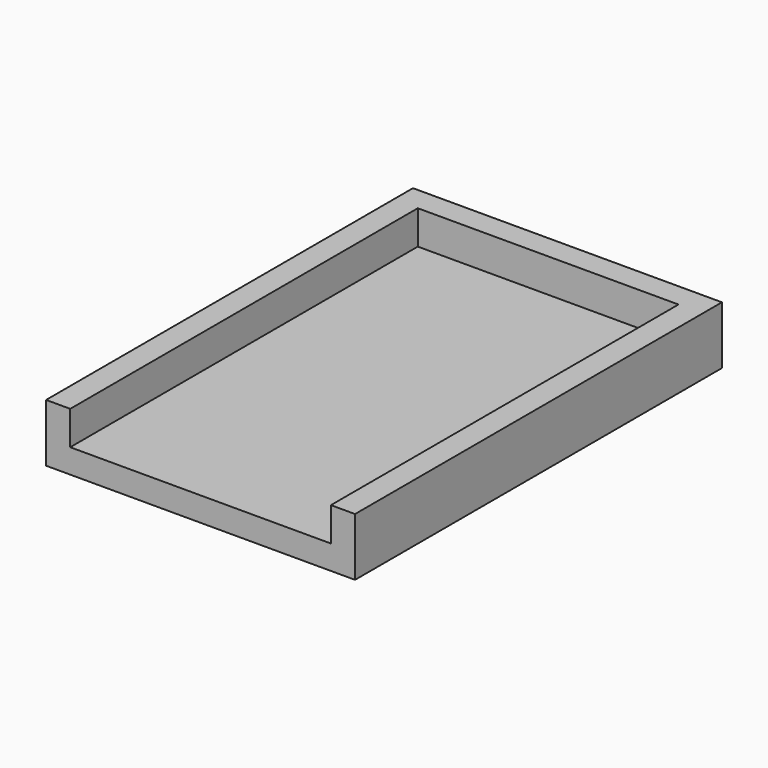
from build123d import *

# Parameters (mm, degrees)
F1_DEPTH = 90
F2_DEPTH = 5


with BuildPart() as f1:
    # F0 (on Front) → F1 (new body)
    with BuildSketch(Plane.XZ):
        Polygon((-27, 12), (-32, 12), (-32, 0), (0, 0), (32, 0), (32, 12), (27, 12), (27, 5), (0, 5), (-27, 5), align=None)
    extrude(amount=F1_DEPTH)

    # F0 (on Front) → F2 (join)
    with BuildSketch(Plane.XZ):
        Polygon((-27, 12), (-32, 12), (-32, 0), (0, 0), (32, 0), (32, 12), (27, 12), (27, 5), (0, 5), (-27, 5), align=None)
        Polygon((27, 12), (-27, 12), (-27, 5), (0, 5), (27, 5), align=None)
    extrude(amount=-F2_DEPTH)


solid = f1.part
